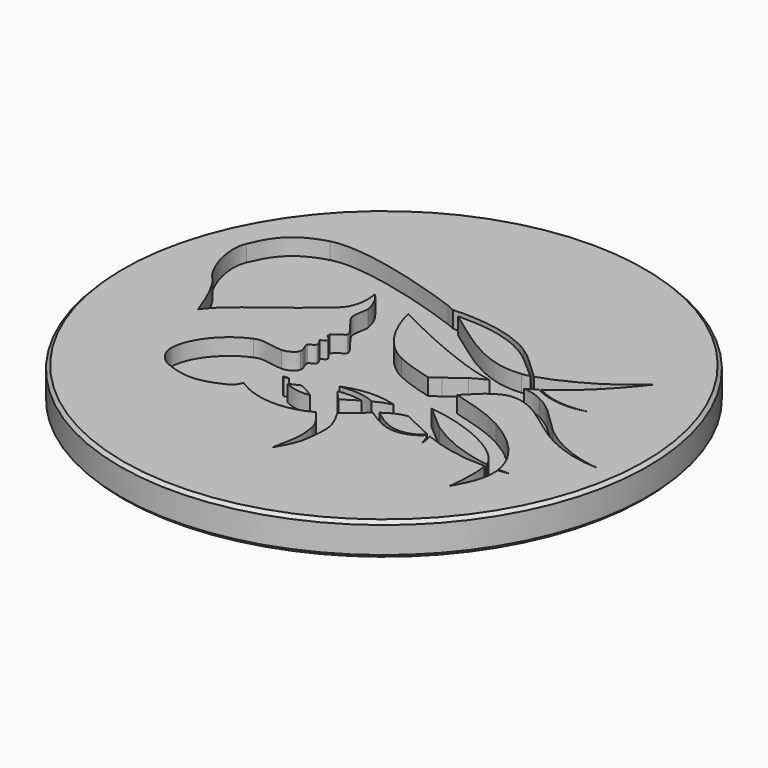
from build123d import *

# Parameters (mm, degrees)
POCKET_DEPTH    = 1.25
POCKET001_DEPTH = 1.25
POCKET002_DEPTH = 1.25
POCKET003_DEPTH = 1.25


with BuildPart() as part:
    # Sketch (on DatumPlane) → Revolution (revolve)
    with BuildSketch(Plane.YZ):
        Polygon((0, 0), (0, -2.5), (19.75, -2.5), (20, -2.25), (20, -0.25), (19.75, 0), align=None)
    revolve(axis=Axis((0, 0, 0), (0, 0, 1)))

    # Sketch015 → Pocket (cut)
    with BuildSketch(Plane.XY):
        with BuildLine():
            add(Edge.make_bspline(
                [(-14.894407, 2.365739), (-15.810943, 3.282275), (-16.628267, 5.771819), (-16.071332, 7.067936)],
                knots=[0, 0, 0, 0, 1, 1, 1, 1], degree=3))
            add(Edge.make_bspline(
                [(-16.071332, 7.067936), (-15.447621, 8.519446), (-14.78848, 9.737261), (-12.409798, 10.403318)],
                knots=[0, 0, 0, 0, 1, 1, 1, 1], degree=3))
            add(Edge.make_bspline(
                [(-12.409798, 10.403318), (-10.031115, 11.069375), (-4.06548, 9.176403), (-1.810642, 8.342011)],
                knots=[0, 0, 0, 0, 1, 1, 1, 1], degree=3))
            add(Edge.make_bspline(
                [(-1.810642, 8.342011), (0.444399, 7.50762), (3.292371, 3.801596), (7.044907, 4.209287)],
                knots=[0, 0, 0, 0, 1, 1, 1, 1], degree=3))
            add(Edge.make_bspline(
                [(7.044907, 4.209287), (7.994002, 4.312386), (9.979311, 5.174155), (11.51333, 6.1387)],
                knots=[0, 0, 0, 0, 1, 1, 1, 1], degree=3))
            add(Edge.make_bspline(
                [(11.51333, 6.1387), (13.047186, 7.103245), (14.12963, 8.170482), (14.12963, 8.170482)],
                knots=[0, 0, 0, 0, 1, 1, 1, 1], degree=3))
            add(Edge.make_bspline(
                [(14.12963, 8.170482), (14.12963, 8.170482), (12.944252, 6.578222), (11.515271, 5.214035)],
                knots=[0, 0, 0, 0, 1, 1, 1, 1], degree=3))
            add(Edge.make_bspline(
                [(11.515271, 5.214035), (10.086249, 3.849847), (8.413624, 2.713692), (7.43917, 2.426448)],
                knots=[0, 0, 0, 0, 1, 1, 1, 1], degree=3))
            add(Edge.make_bspline(
                [(7.43917, 2.426448), (5.145423, 1.75032), (-2.979194, 6.031884), (-2.979194, 6.031884)],
                knots=[0, 0, 0, 0, 1, 1, 1, 1], degree=3))
            add(Edge.make_bspline(
                [(-2.979194, 6.031884), (-2.979194, 6.031884), (-2.337647, 2.619454), (0.23481, 1.366492)],
                knots=[0, 0, 0, 0, 1, 1, 1, 1], degree=3))
            add(Edge.make_bspline(
                [(0.23481, 1.366492), (2.62328, 0.203157), (7.157063, -0.216304), (9.895225, -1.742395)],
                knots=[0, 0, 0, 0, 1, 1, 1, 1], degree=3))
            add(Edge.make_bspline(
                [(9.895225, -1.742395), (12.032165, -2.933515), (13.983459, -4.905437), (13.644041, -7.328327)],
                knots=[0, 0, 0, 0, 1, 1, 1, 1], degree=3))
            add(Edge.make_bspline(
                [(13.644041, -7.328327), (13.504208, -8.326725), (12.704248, -9.651397), (12.704248, -9.651397)],
                knots=[0, 0, 0, 0, 1, 1, 1, 1], degree=3))
            add(Edge.make_bspline(
                [(12.704248, -9.651397), (12.704248, -9.651397), (13.14834, -6.552541), (12.412891, -5.589452)],
                knots=[0, 0, 0, 0, 1, 1, 1, 1], degree=3))
            add(Edge.make_bspline(
                [(12.412891, -5.589452), (11.1228, -3.900406), (7.940019, -2.821724), (5.827145, -2.589809)],
                knots=[0, 0, 0, 0, 1, 1, 1, 1], degree=3))
            add(Edge.make_bspline(
                [(5.827145, -2.589809), (3.879329, -2.375994), (1.826192, -2.670652), (0.675193, -2.693148)],
                knots=[0, 0, 0, 0, 1, 1, 1, 1], degree=3))
            add(Edge.make_bspline(
                [(0.675193, -2.693148), (-0.475887, -2.715645), (-1.695886, -2.766864), (-1.695886, -2.766864)],
                knots=[0, 0, 0, 0, 1, 1, 1, 1], degree=3))
            add(Edge.make_bspline(
                [(-1.695886, -2.766864), (-1.695886, -2.766864), (2.507214, -6.336546), (2.447354, -8.636724)],
                knots=[0, 0, 0, 0, 1, 1, 1, 1], degree=3))
            add(Edge.make_bspline(
                [(2.447354, -8.636724), (2.430388, -9.285834), (2.416386, -9.504685), (2.285459, -10.348824)],
                knots=[0, 0, 0, 0, 1, 1, 1, 1], degree=3))
            add(Edge.make_bspline(
                [(2.285459, -10.348824), (2.16574, -11.120726), (1.422028, -12.359533), (1.422028, -12.359533)],
                knots=[0, 0, 0, 0, 1, 1, 1, 1], degree=3))
            add(Edge.make_bspline(
                [(1.422028, -12.359533), (1.422028, -12.359533), (1.518203, -11.656266), (1.679448, -10.93043)],
                knots=[0, 0, 0, 0, 1, 1, 1, 1], degree=3))
            add(Edge.make_bspline(
                [(1.679448, -10.93043), (1.874779, -10.051144), (1.718704, -9.327088), (1.645862, -8.857435)],
                knots=[0, 0, 0, 0, 1, 1, 1, 1], degree=3))
            add(Edge.make_bspline(
                [(1.645862, -8.857435), (1.484331, -7.815963), (-0.670979, -5.801249), (-1.73769, -5.278046)],
                knots=[0, 0, 0, 0, 1, 1, 1, 1], degree=3))
            add(Edge.make_bspline(
                [(-1.73769, -5.278046), (-5.332772, -3.514661), (-4.389218, -7.053847), (-5.636437, -7.674565)],
                knots=[0, 0, 0, 0, 1, 1, 1, 1], degree=3))
            add(Edge.make_bspline(
                [(-5.636437, -7.674565), (-7.561765, -8.63276), (-8.600285, -8.410067), (-9.944695, -7.899487)],
                knots=[0, 0, 0, 0, 1, 1, 1, 1], degree=3))
            add(Edge.make_bspline(
                [(-9.944695, -7.899487), (-10.616495, -7.644372), (-11.225483, -6.877145), (-11.216343, -6.15859)],
                knots=[0, 0, 0, 0, 1, 1, 1, 1], degree=3))
            add(Edge.make_bspline(
                [(-11.216343, -6.15859), (-11.194918, -4.475975), (-9.69919, -2.800963), (-8.135768, -2.159214)],
                knots=[0, 0, 0, 0, 1, 1, 1, 1], degree=3))
            add(Edge.make_bspline(
                [(-8.135768, -2.159214), (-7.455111, -1.879808), (-7.011706, -2.216853), (-5.947584, -2.25031)],
                knots=[0, 0, 0, 0, 1, 1, 1, 1], degree=3))
            add(Edge.make_bspline(
                [(-5.947584, -2.25031), (-5.602103, -2.261184), (-5.07841, -2.008368), (-4.995335, -1.666923)],
                knots=[0, 0, 0, 0, 1, 1, 1, 1], degree=3))
            add(Edge.make_bspline(
                [(-4.995335, -1.666923), (-4.912256, -1.325474), (-5.30524, -0.947883), (-5.178646, -0.750387)],
                knots=[0, 0, 0, 0, 1, 1, 1, 1], degree=3))
            add(Edge.make_bspline(
                [(-5.178646, -0.750387), (-5.052051, -0.552883), (-4.780472, -0.644606), (-4.747456, -0.377022)],
                knots=[0, 0, 0, 0, 1, 1, 1, 1], degree=3))
            add(Edge.make_bspline(
                [(-4.747456, -0.377022), (-4.727422, -0.214747), (-4.995355, 0.166161), (-4.995355, 0.166161)],
                knots=[0, 0, 0, 0, 1, 1, 1, 1], degree=3))
            add(Edge.make_bspline(
                [(-4.995355, 0.166161), (-4.995355, 0.166161), (-4.486146, 0.247635), (-4.628732, 0.532784)],
                knots=[0, 0, 0, 0, 1, 1, 1, 1], degree=3))
            add(Edge.make_bspline(
                [(-4.628732, 0.532784), (-4.771307, 0.817933), (-5.019036, 0.714999), (-4.96333, 1.046402)],
                knots=[0, 0, 0, 0, 1, 1, 1, 1], degree=3))
            add(Edge.make_bspline(
                [(-4.96333, 1.046402), (-4.445425, 1.63266), (-4.262126, 1.449336), (-4.150173, 1.746514)],
                knots=[0, 0, 0, 0, 1, 1, 1, 1], degree=3))
            add(Edge.make_bspline(
                [(-4.150173, 1.746514), (-4.049439, 2.013899), (-4.973967, 2.909363), (-5.292435, 3.508968)],
                knots=[0, 0, 0, 0, 1, 1, 1, 1], degree=3))
            add(Edge.make_bspline(
                [(-5.292435, 3.508968), (-5.489033, 3.872917), (-5.181898, 4.775197), (-5.228054, 5.02693)],
                knots=[0, 0, 0, 0, 1, 1, 1, 1], degree=3))
            add(Edge.make_bspline(
                [(-5.228054, 5.02693), (-5.444834, 6.209314), (-6.095247, 6.765359), (-6.095247, 6.765359)],
                knots=[0, 0, 0, 0, 1, 1, 1, 1], degree=3))
            add(Edge.make_bspline(
                [(-6.095247, 6.765359), (-6.095247, 6.765359), (-5.728628, 5.115546), (-6.645185, 4.19901)],
                knots=[0, 0, 0, 0, 1, 1, 1, 1], degree=3))
            add(Edge.make_bspline(
                [(-6.645185, 4.19901), (-7.561721, 3.282473), (-9.721998, 1.692479), (-11.228068, 0.532784)],
                knots=[0, 0, 0, 0, 1, 1, 1, 1], degree=3))
            add(Edge.make_bspline(
                [(-11.228068, 0.532784), (-12.734017, -0.626911), (-13.061181, -1.300329), (-13.061181, -1.300329)],
                knots=[0, 0, 0, 0, 1, 1, 1, 1], degree=3))
            add(Edge.make_bspline(
                [(-13.061181, -1.300329), (-13.061181, -1.300329), (-13.977717, 1.44932), (-14.894294, 2.365897)],
                knots=[0, 0, 0, 0, 1, 1, 1, 1], degree=3))
            add(Edge.make_bspline(
                [(-14.894294, 2.365897), (-14.894407, 2.365739)],
                knots=[0, 0, 0.004807, 0.004807], degree=1))
        make_face()
    extrude(amount=-POCKET_DEPTH, mode=Mode.SUBTRACT)

    # Sketch016 → Pocket001 (cut)
    with BuildSketch(Plane.XY):
        with BuildLine():
            add(Edge.make_bspline(
                [(-1.967611, 0.376223), (-1.334193, -0.035957), (-0.569045, -0.287609), (0.222595, -0.327853)],
                knots=[0, 0, 0, 0, 1, 1, 1, 1], degree=3))
            add(Edge.make_bspline(
                [(0.222595, -0.327853), (1.013791, -0.36805), (1.838192, -0.194051), (2.575555, 0.185159)],
                knots=[0, 0, 0, 0, 1, 1, 1, 1], degree=3))
            add(Edge.make_bspline(
                [(2.575555, 0.185159), (2.939116, 0.371026), (3.294272, 0.614367), (3.688575, 0.909295)],
                knots=[0, 0, 0, 0, 1, 1, 1, 1], degree=3))
            add(Edge.make_bspline(
                [(3.688575, 0.909295), (4.056973, 1.184867), (4.506222, 1.542915), (4.939394, 1.84658)],
                knots=[0, 0, 0, 0, 1, 1, 1, 1], degree=3))
            add(Edge.make_bspline(
                [(4.939394, 1.84658), (5.414669, 2.137327), (5.936012, 2.415447), (6.506618, 2.606875)],
                knots=[0, 0, 0, 0, 1, 1, 1, 1], degree=3))
            add(Edge.make_bspline(
                [(6.506618, 2.606875), (7.078679, 2.799097), (7.698507, 2.900308), (8.316717, 2.837026)],
                knots=[0, 0, 0, 0, 1, 1, 1, 1], degree=3))
            add(Edge.make_bspline(
                [(8.316717, 2.837026), (8.876766, 2.808197), (9.393903, 2.645323), (9.855305, 2.418658)],
                knots=[0, 0, 0, 0, 1, 1, 1, 1], degree=3))
            add(Edge.make_bspline(
                [(9.855305, 2.418658), (10.316182, 2.192252), (10.735441, 1.895374), (11.104061, 1.581719)],
                knots=[0, 0, 0, 0, 1, 1, 1, 1], degree=3))
            add(Edge.make_bspline(
                [(11.104061, 1.581719), (11.742737, 1.037807), (12.526167, 0.160988), (13.103082, -0.352063)],
                knots=[0, 0, 0, 0, 1, 1, 1, 1], degree=3))
            add(Edge.make_bspline(
                [(13.103082, -0.352063), (14.499747, -1.499948), (16.266812, -2.228736), (18.110643, -2.390761)],
                knots=[0, 0, 0, 0, 1, 1, 1, 1], degree=3))
            add(Edge.make_bspline(
                [(18.110643, -2.390761), (16.260786, -2.368235), (14.398835, -1.774007), (12.849893, -0.685739)],
                knots=[0, 0, 0, 0, 1, 1, 1, 1], degree=3))
            add(Edge.make_bspline(
                [(12.849893, -0.685739), (11.952204, -0.103768), (11.461923, 0.378868), (10.60832, 0.906319)],
                knots=[0, 0, 0, 0, 1, 1, 1, 1], degree=3))
            add(Edge.make_bspline(
                [(10.60832, 0.906319), (10.235615, 1.136373), (9.848551, 1.327559), (9.45813, 1.449543)],
                knots=[0, 0, 0, 0, 1, 1, 1, 1], degree=3))
            add(Edge.make_bspline(
                [(9.45813, 1.449543), (9.067625, 1.571567), (8.690474, 1.619183), (8.330468, 1.580279)],
                knots=[0, 0, 0, 0, 1, 1, 1, 1], degree=3))
            add(Edge.make_bspline(
                [(8.330468, 1.580279), (7.939825, 1.506692), (7.561073, 1.328085), (7.220441, 1.090686)],
                knots=[0, 0, 0, 0, 1, 1, 1, 1], degree=3))
            add(Edge.make_bspline(
                [(7.220441, 1.090686), (6.877851, 0.852433), (6.560491, 0.550091), (6.247604, 0.21051)],
                knots=[0, 0, 0, 0, 1, 1, 1, 1], degree=3))
            add(Edge.make_bspline(
                [(6.247604, 0.21051), (5.893023, -0.12025), (5.592427, -0.441189), (5.198083, -0.831569)],
                knots=[0, 0, 0, 0, 1, 1, 1, 1], degree=3))
            add(Edge.make_bspline(
                [(5.198083, -0.831569), (4.827505, -1.198443), (4.403571, -1.5951), (3.910176, -1.944994)],
                knots=[0, 0, 0, 0, 1, 1, 1, 1], degree=3))
            add(Edge.make_bspline(
                [(3.910176, -1.944994), (2.874852, -2.675764), (1.633012, -3.139351), (0.333902, -3.258342)],
                knots=[0, 0, 0, 0, 1, 1, 1, 1], degree=3))
            add(Edge.make_bspline(
                [(0.333902, -3.258342), (-0.964481, -3.377243), (-2.308486, -3.152067), (-3.526503, -2.590667)],
                knots=[0, 0, 0, 0, 1, 1, 1, 1], degree=3))
            add(Edge.make_bspline(
                [(-3.526503, -2.590667), (-1.967611, 0.376223)],
                knots=[0, 0, 82.864638, 82.864638], degree=1))
        make_face()
        with BuildLine():
            add(Edge.make_bspline(
                [(-5.830159, -6.124587), (-4.705531, -5.421603), (-3.518738, -4.821594), (-2.289315, -4.333699)],
                knots=[0, 0, 0, 0, 1, 1, 1, 1], degree=3))
            add(Edge.make_bspline(
                [(-2.289315, -4.333699), (-1.598141, -4.068664), (-0.871011, -3.830031), (-0.110797, -3.735105)],
                knots=[0, 0, 0, 0, 1, 1, 1, 1], degree=3))
            add(Edge.make_bspline(
                [(-0.110797, -3.735105), (0.650711, -3.639953), (1.45214, -3.694518), (2.172596, -3.999951)],
                knots=[0, 0, 0, 0, 1, 1, 1, 1], degree=3))
            add(Edge.make_bspline(
                [(2.172596, -3.999951), (2.792869, -4.26548), (3.320238, -4.706332), (3.816343, -5.082314)],
                knots=[0, 0, 0, 0, 1, 1, 1, 1], degree=3))
            add(Edge.make_bspline(
                [(3.816343, -5.082314), (4.32171, -5.465369), (4.850211, -5.818544), (5.446257, -5.9417)],
                knots=[0, 0, 0, 0, 1, 1, 1, 1], degree=3))
            add(Edge.make_bspline(
                [(5.446257, -5.9417), (5.942079, -6.047518), (6.480207, -5.985256), (6.949092, -5.759611)],
                knots=[0, 0, 0, 0, 1, 1, 1, 1], degree=3))
            add(Edge.make_bspline(
                [(6.949092, -5.759611), (7.417653, -5.534119), (7.814626, -5.146133), (8.053093, -4.669078)],
                knots=[0, 0, 0, 0, 1, 1, 1, 1], degree=3))
            add(Edge.make_bspline(
                [(8.053093, -4.669078), (7.850461, -5.162068), (7.477634, -5.591115), (7.004057, -5.863596)],
                knots=[0, 0, 0, 0, 1, 1, 1, 1], degree=3))
            add(Edge.make_bspline(
                [(7.004057, -5.863596), (6.530804, -6.135892), (5.960279, -6.249608), (5.406095, -6.173474)],
                knots=[0, 0, 0, 0, 1, 1, 1, 1], degree=3))
            add(Edge.make_bspline(
                [(5.406095, -6.173474), (4.741332, -6.078216), (4.149816, -5.728006), (3.612012, -5.369983)],
                knots=[0, 0, 0, 0, 1, 1, 1, 1], degree=3))
            add(Edge.make_bspline(
                [(3.612012, -5.369983), (3.064258, -5.005374), (2.57058, -4.641316), (1.999893, -4.437551)],
                knots=[0, 0, 0, 0, 1, 1, 1, 1], degree=3))
            add(Edge.make_bspline(
                [(1.999893, -4.437551), (1.364332, -4.207764), (0.65694, -4.194077), (-0.02303, -4.316575)],
                knots=[0, 0, 0, 0, 1, 1, 1, 1], degree=3))
            add(Edge.make_bspline(
                [(-0.02303, -4.316575), (-0.704376, -4.439262), (-1.363557, -4.69288), (-2.019341, -4.985706)],
                knots=[0, 0, 0, 0, 1, 1, 1, 1], degree=3))
            add(Edge.make_bspline(
                [(-2.019341, -4.985706), (-3.194445, -5.49354), (-4.321905, -6.10722), (-5.383519, -6.816189)],
                knots=[0, 0, 0, 0, 1, 1, 1, 1], degree=3))
            add(Edge.make_bspline(
                [(-5.383519, -6.816189), (-5.830159, -6.124587)],
                knots=[0, 0, 20.355446, 20.355446], degree=1))
        make_face()
    extrude(amount=-POCKET001_DEPTH, mode=Mode.SUBTRACT)

    # Sketch017 → Pocket002 (cut)
    with BuildSketch(Plane.XY):
        with BuildLine():
            add(Edge.make_bspline(
                [(-5.756953, -4.218794), (-4.518025, -3.666186)],
                knots=[0, 0, 33.540975, 33.540975], degree=1))
            add(Edge.make_bspline(
                [(-4.518025, -3.666186), (-4.270826, -4.381182), (-3.721572, -5.027098), (-3.006171, -5.399844)],
                knots=[0, 0, 0, 0, 1, 1, 1, 1], degree=3))
            add(Edge.make_bspline(
                [(-3.006171, -5.399844), (-2.291822, -5.772015), (-1.398664, -5.869982), (-0.575395, -5.63624)],
                knots=[0, 0, 0, 0, 1, 1, 1, 1], degree=3))
            add(Edge.make_bspline(
                [(-0.575395, -5.63624), (-0.177795, -5.524565), (0.214425, -5.335786), (0.639063, -5.087353)],
                knots=[0, 0, 0, 0, 1, 1, 1, 1], degree=3))
            add(Edge.make_bspline(
                [(0.639063, -5.087353), (1.08999, -4.823551), (1.462291, -4.565485), (1.958801, -4.259312)],
                knots=[0, 0, 0, 0, 1, 1, 1, 1], degree=3))
            add(Edge.make_bspline(
                [(1.958801, -4.259312), (2.443419, -3.998268), (2.965328, -3.7444), (3.529018, -3.57651)],
                knots=[0, 0, 0, 0, 1, 1, 1, 1], degree=3))
            add(Edge.make_bspline(
                [(3.529018, -3.57651), (4.094689, -3.407844), (4.69943, -3.329938), (5.291715, -3.418676)],
                knots=[0, 0, 0, 0, 1, 1, 1, 1], degree=3))
            add(Edge.make_bspline(
                [(5.291715, -3.418676), (6.065721, -3.514358), (6.770201, -3.898926), (7.251341, -4.449228)],
                knots=[0, 0, 0, 0, 1, 1, 1, 1], degree=3))
            add(Edge.make_bspline(
                [(7.251341, -4.449228), (7.733654, -5.000824), (7.986034, -5.711412), (7.978067, -6.395346)],
                knots=[0, 0, 0, 0, 1, 1, 1, 1], degree=3))
            add(Edge.make_bspline(
                [(7.978067, -6.395346), (7.857151, -5.720512), (7.4854, -5.120826), (6.983187, -4.729071)],
                knots=[0, 0, 0, 0, 1, 1, 1, 1], degree=3))
            add(Edge.make_bspline(
                [(6.983187, -4.729071), (6.479762, -4.336389), (5.849054, -4.152075), (5.260491, -4.193208)],
                knots=[0, 0, 0, 0, 1, 1, 1, 1], degree=3))
            add(Edge.make_bspline(
                [(5.260491, -4.193208), (4.811788, -4.239356), (4.37534, -4.411403), (3.98128, -4.647694)],
                knots=[0, 0, 0, 0, 1, 1, 1, 1], degree=3))
            add(Edge.make_bspline(
                [(3.98128, -4.647694), (3.584913, -4.885045), (3.217547, -5.191242), (2.849047, -5.528557)],
                knots=[0, 0, 0, 0, 1, 1, 1, 1], degree=3))
            add(Edge.make_bspline(
                [(2.849047, -5.528557), (2.49091, -5.816153), (2.032209, -6.213543), (1.618007, -6.530717)],
                knots=[0, 0, 0, 0, 1, 1, 1, 1], degree=3))
            add(Edge.make_bspline(
                [(1.618007, -6.530717), (1.177636, -6.867968), (0.676273, -7.206117), (0.094585, -7.454655)],
                knots=[0, 0, 0, 0, 1, 1, 1, 1], degree=3))
            add(Edge.make_bspline(
                [(0.094585, -7.454655), (-1.143695, -7.979233), (-2.599896, -8.025341), (-3.909886, -7.542543)],
                knots=[0, 0, 0, 0, 1, 1, 1, 1], degree=3))
            add(Edge.make_bspline(
                [(-3.909886, -7.542543), (-5.217814, -7.060472), (-6.349116, -6.063773), (-6.99584, -4.771336)],
                knots=[0, 0, 0, 0, 1, 1, 1, 1], degree=3))
            add(Edge.make_bspline(
                [(-6.99584, -4.771336), (-5.756912, -4.218729)],
                knots=[0, 0, 33.540975, 33.540975], degree=1))
            add(Edge.make_bspline(
                [(-5.756912, -4.218729), (-5.756953, -4.218794)],
                knots=[0, 0, 0.001887, 0.001887], degree=1))
        make_face()
        with BuildLine():
            add(Edge.make_bspline(
                [(-4.273815, 7.611929), (-2.583758, 8.055252), (-0.820293, 8.203364), (0.913729, 8.049833)],
                knots=[0, 0, 0, 0, 1, 1, 1, 1], degree=3))
            add(Edge.make_bspline(
                [(0.913729, 8.049833), (2.420891, 7.913972), (3.946618, 7.53763), (5.227245, 6.702552)],
                knots=[0, 0, 0, 0, 1, 1, 1, 1], degree=3))
            add(Edge.make_bspline(
                [(5.227245, 6.702552), (6.002019, 6.188893), (6.660513, 5.521663), (7.313708, 4.89589)],
                knots=[0, 0, 0, 0, 1, 1, 1, 1], degree=3))
            add(Edge.make_bspline(
                [(7.313708, 4.89589), (7.970463, 4.266719), (8.652294, 3.653039), (9.456229, 3.244459)],
                knots=[0, 0, 0, 0, 1, 1, 1, 1], degree=3))
            add(Edge.make_bspline(
                [(9.456229, 3.244459), (10.712548, 2.617472), (12.24054, 2.536824), (13.568731, 3.03959)],
                knots=[0, 0, 0, 0, 1, 1, 1, 1], degree=3))
            add(Edge.make_bspline(
                [(13.568731, 3.03959), (12.254656, 2.502918), (10.708908, 2.53762), (9.408504, 3.145225)],
                knots=[0, 0, 0, 0, 1, 1, 1, 1], degree=3))
            add(Edge.make_bspline(
                [(9.408504, 3.145225), (8.569421, 3.52996), (7.850663, 4.127526), (7.164666, 4.733683)],
                knots=[0, 0, 0, 0, 1, 1, 1, 1], degree=3))
            add(Edge.make_bspline(
                [(7.164666, 4.733683), (6.474949, 5.343117), (5.815808, 5.959183), (5.050174, 6.423457)],
                knots=[0, 0, 0, 0, 1, 1, 1, 1], degree=3))
            add(Edge.make_bspline(
                [(5.050174, 6.423457), (3.81424, 7.186583), (2.344611, 7.514637), (0.879431, 7.610372)],
                knots=[0, 0, 0, 0, 1, 1, 1, 1], degree=3))
            add(Edge.make_bspline(
                [(0.879431, 7.610372), (-0.806905, 7.723352), (-2.509419, 7.542472), (-4.128535, 7.080454)],
                knots=[0, 0, 0, 0, 1, 1, 1, 1], degree=3))
            add(Edge.make_bspline(
                [(-4.128535, 7.080454), (-4.273815, 7.611929)],
                knots=[0, 0, 13.622599, 13.622599], degree=1))
        make_face()
    extrude(amount=-POCKET002_DEPTH, mode=Mode.SUBTRACT)

    # Sketch018 → Pocket003 (cut)
    with BuildSketch(Plane.XY):
        with BuildLine():
            add(Edge.make_bspline(
                [(-4.229325, -4.349028), (-4.452471, -3.629543), (-4.578977, -2.852705), (-4.600251, -2.041489)],
                knots=[0, 0, 0, 0, 1, 1, 1, 1], degree=3))
            add(Edge.make_bspline(
                [(-4.600251, -2.041489), (-3.419282, -1.261942), (-2.080656, -0.775908), (-0.724558, -0.619991)],
                knots=[0, 0, 0, 0, 1, 1, 1, 1], degree=3))
            add(Edge.make_bspline(
                [(-0.724558, -0.619991), (1.099535, -0.410276), (2.918978, -0.806101), (4.413642, -1.664335)],
                knots=[0, 0, 0, 0, 1, 1, 1, 1], degree=3))
            add(Edge.make_bspline(
                [(4.413642, -1.664335), (5.037919, -2.037639), (5.583287, -2.483599), (6.074134, -2.909127)],
                knots=[0, 0, 0, 0, 1, 1, 1, 1], degree=3))
            add(Edge.make_bspline(
                [(6.074134, -2.909127), (6.577883, -3.345817), (7.027961, -3.763741), (7.517149, -4.152544)],
                knots=[0, 0, 0, 0, 1, 1, 1, 1], degree=3))
            add(Edge.make_bspline(
                [(7.517149, -4.152544), (9.492064, -5.512687), (11.952002, -6.266753), (14.460029, -6.213325)],
                knots=[0, 0, 0, 0, 1, 1, 1, 1], degree=3))
            add(Edge.make_bspline(
                [(14.460029, -6.213325), (11.985855, -6.610754), (9.331131, -6.21978), (6.992166, -5.046754)],
                knots=[0, 0, 0, 0, 1, 1, 1, 1], degree=3))
            add(Edge.make_bspline(
                [(6.992166, -5.046754), (6.382288, -4.787644), (5.780135, -4.475825), (5.218427, -4.207914)],
                knots=[0, 0, 0, 0, 1, 1, 1, 1], degree=3))
            add(Edge.make_bspline(
                [(5.218427, -4.207914), (4.641108, -3.93252), (4.107591, -3.703477), (3.565904, -3.557064)],
                knots=[0, 0, 0, 0, 1, 1, 1, 1], degree=3))
            add(Edge.make_bspline(
                [(3.565904, -3.557064), (2.327988, -3.19282), (1.024509, -3.252105), (-0.080989, -3.663525)],
                knots=[0, 0, 0, 0, 1, 1, 1, 1], degree=3))
            add(Edge.make_bspline(
                [(-0.080989, -3.663525), (-0.899808, -3.96825), (-1.622813, -4.465155), (-2.178089, -5.073658)],
                knots=[0, 0, 0, 0, 1, 1, 1, 1], degree=3))
            add(Edge.make_bspline(
                [(-2.178089, -5.073658), (-2.801072, -4.743724), (-3.490992, -4.495368), (-4.229487, -4.349117)],
                knots=[0, 0, 0, 0, 1, 1, 1, 1], degree=3))
            add(Edge.make_bspline(
                [(-4.229487, -4.349117), (-4.229325, -4.349028)],
                knots=[0, 0, 0.004565, 0.004565], degree=1))
        make_face()
    extrude(amount=-POCKET003_DEPTH, mode=Mode.SUBTRACT)


solid = part.part
